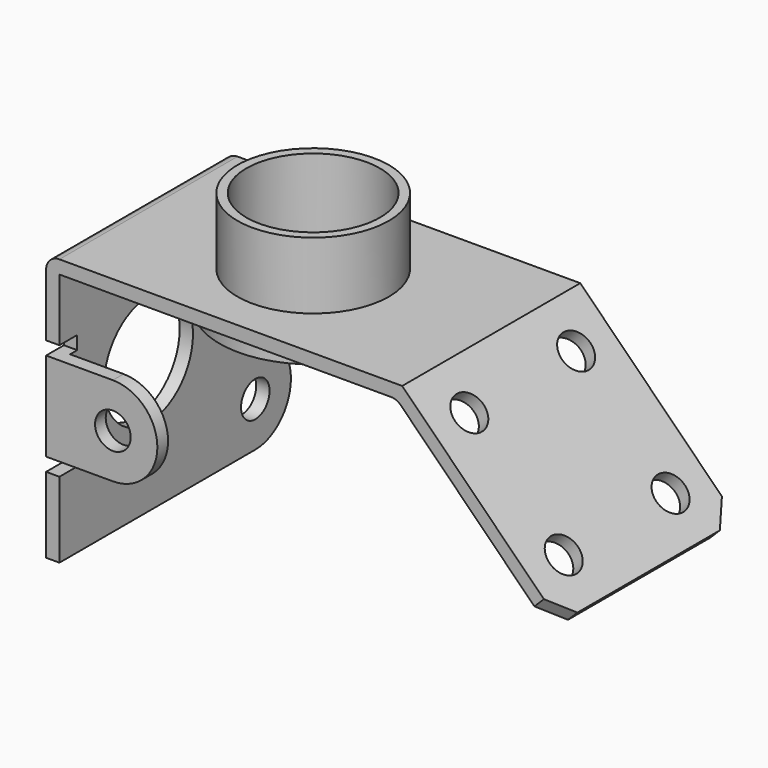
from build123d import *

# Parameters (mm, degrees)
F1_DEPTH      = 25
F1_DEPTH_BACK = 25
F2_R          = 17
F3_DEPTH      = 15
F4_R          = 21
F5_DEPTH      = 5
F7_D          = 30
F8_W          = 5
F8_H          = 3
F9_DEPTH      = 5
F10_DEPTH     = 3
F11_D         = 25
F11_DEPTH     = 5
F11_TIP       = 7.5107577378
F12_D         = 8
F13_W         = 3
F13_H         = 20
F14_DEPTH     = 3
F16_D         = 8
F16_DEPTH     = 5
F16_TIP       = 2.4034424761
F18_D         = 8
F18_DEPTH     = 5
F18_TIP       = 2.4034424761
F19_SIZE      = 5
F20_R         = 3


with BuildPart() as f1:
    # F0 (on Front) → F1 (new body, two sides)
    with BuildSketch(Plane.XZ) as f1_sk:
        Polygon((75.3553390593, -35.3553390593), (40, 0), (-40, 0), (-40, -60), (-37, -60), (-37, -3), (38.7573593129, -3), (73.2340187158, -37.4766594029), align=None)
    extrude(amount=F1_DEPTH)
    extrude(f1_sk.sketch, amount=-F1_DEPTH_BACK)

    # F2 (on face) → F3 (join)
    with BuildSketch(Plane.XY):
        Circle(F2_R)
    extrude(amount=F3_DEPTH)

    # F4 (on face) → F5 (join)
    with BuildSketch(Plane(origin=(0, 0, -3), x_dir=(1, 0, 0), z_dir=(0, 0, -1))):
        Circle(F4_R)
    extrude(amount=F5_DEPTH)

    # F7 (through all)
    with Locations(Plane.XY.offset(15)):
        with Locations((0, 0)):
            Hole(F7_D / 2)

    # F8 (on face) → F9 (cut)
    with BuildSketch(Plane(origin=(-40, 0, 0), x_dir=(0, -1, 0), z_dir=(-1, 0, 0))):
        with Locations((27.5, -18.5)):
            Rectangle(F8_W, F8_H)
        with Locations((27.5, -41.5)):
            Rectangle(F8_W, F8_H)
        with Locations((22.5, -18.5)):
            Rectangle(F8_W, F8_H)
        with Locations((22.5, -41.5)):
            Rectangle(F8_W, F8_H)
    extrude(amount=-F9_DEPTH, mode=Mode.SUBTRACT)

    # F8 (on face) → F10 (join)
    with BuildSketch(Plane(origin=(-40, 0, 0), x_dir=(0, -1, 0), z_dir=(-1, 0, 0))):
        with BuildLine():
            Line((-25, -60), (-25, -35))
            ThreePointArc((-25, -35), (-26.4644660941, -38.5355339059), (-30, -40))
            ThreePointArc((-30, -40), (-40, -50), (-30, -60))
            Line((-30, -60), (-25, -60))
        make_face()
        Polygon((0, -30), (-25, -30), (-25, -35), (-25, -60), (0, -60), align=None)
    extrude(amount=-F10_DEPTH)

    # F11
    with Locations(Plane(origin=(-40, 0, 0), x_dir=(0, -1, 0), z_dir=(-1, 0, 0))):
        with Locations((0, -30)):
            Hole(F11_D / 2, depth=F11_DEPTH)
            with Locations((0, 0, -(F11_DEPTH + F11_TIP / 2))):  # 118° drill point
                Cone(0, F11_D / 2, F11_TIP, mode=Mode.SUBTRACT)

    # F12 (through all)
    with Locations(Plane(origin=(-40, 0, 0), x_dir=(0, -1, 0), z_dir=(-1, 0, 0))):
        with Locations((-30, -50)):
            Hole(F12_D / 2)

    # F13 (on face) → F14 (join)
    with BuildSketch(Plane.XZ.offset(25)):
        with BuildLine():
            Line((-25, -20), (-37, -20))
            Line((-37, -20), (-37, -40))
            Line((-37, -40), (-25, -40))
            ThreePointArc((-25, -40), (-15, -30), (-25, -20))
        make_face()
        with Locations((-38.5, -30)):
            Rectangle(F13_W, F13_H)
    extrude(amount=-F14_DEPTH)

    # F16
    with Locations(Plane.XZ.offset(25)):
        with Locations((-25, -30)):
            Hole(F16_D / 2, depth=F16_DEPTH)
            with Locations((0, 0, -(F16_DEPTH + F16_TIP / 2))):  # 118° drill point
                Cone(0, F16_D / 2, F16_TIP, mode=Mode.SUBTRACT)

    # F18
    with Locations(Plane(origin=(20, 0, 20), x_dir=(0.7071067812, 0, -0.7071067812), z_dir=(0.7071067812, 0, 0.7071067812))):
        with Locations((38.2842712475, -15), (38.2842712475, 15), (68.2842712475, -15), (68.2842712475, 15)):
            Hole(F18_D / 2, depth=F18_DEPTH)
            with Locations((0, 0, -(F18_DEPTH + F18_TIP / 2))):  # 118° drill point
                Cone(0, F18_D / 2, F18_TIP, mode=Mode.SUBTRACT)

    # F19
    f19_edges = [f1.edges().sort_by_distance(p)[0] for p in [
        (74.294679, 25, -36.415999),
        (74.294679, -25, -36.415999),
    ]]
    chamfer(f19_edges, length=F19_SIZE)

    # F20
    f20_edges = [f1.edges().sort_by_distance(p)[0] for p in [
        (-40, 0, 0),
        (38.757359, 0, -3),
    ]]
    fillet(f20_edges, radius=F20_R)


solid = f1.part
